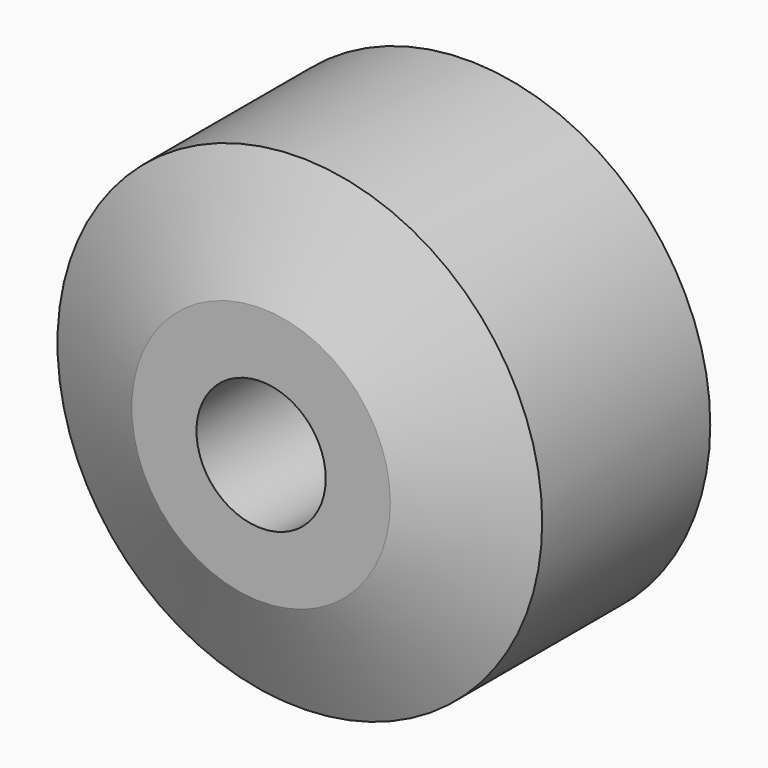
from build123d import *

# Parameters (mm, degrees)
SKETCH050_R      = 14.2875
PAD049_DEPTH     = 12.7
SKETCH049_R      = 23.8125
SKETCH049_R_2    = 6.35
PAD050_DEPTH     = 25.4
CHAMFER003_SIZE2 = 11.11
CHAMFER003_SIZE  = 4.76


with BuildPart() as body048:
    # Sketch050 → Pad049 (new body)
    with BuildSketch(Plane.XZ):
        Circle(SKETCH050_R)
    extrude(amount=PAD049_DEPTH)


with BuildPart() as chamfer003:
    # Sketch049 → Pad050 (new body)
    with BuildSketch(Plane.XZ):
        Circle(SKETCH049_R)
        Circle(SKETCH049_R_2, mode=Mode.SUBTRACT)
    extrude(amount=PAD050_DEPTH)

    # Cut047: cut Body048
    add(body048.part, mode=Mode.SUBTRACT)

    # Chamfer003
    chamfer003_edges = [chamfer003.edges().sort_by_distance(p)[0] for p in [
        (-23.8125, -25.4, 0),
    ]]
    chamfer003_side = chamfer003.faces().sort_by_distance((-23.8125, -12.7, 0))[0]
    chamfer(chamfer003_edges, length=CHAMFER003_SIZE, length2=CHAMFER003_SIZE2, reference=chamfer003_side)


with BuildPart() as chamfer003_1:
    # Chamfer003 placement: moved
    add(chamfer003.part.moved(Location((0, -12.7, 0))))


solid = chamfer003_1.part
